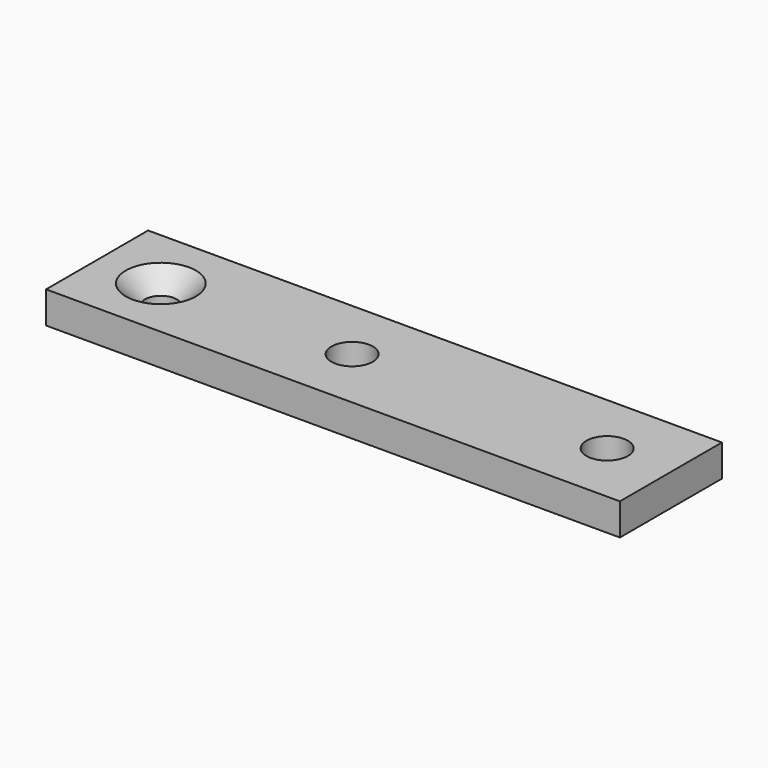
from build123d import *

# Parameters (mm, degrees)
F0_W     = 90
F0_H     = 20
F0_R     = 2.5
F0_R_2   = 3.25
F1_DEPTH = 5
F2_SIZE  = 3


with BuildPart() as f1:
    # F0 (on Top) → F1 (new body)
    with BuildSketch(Plane.XY):
        with Locations((35, 0)):
            Rectangle(F0_W, F0_H)
        Circle(F0_R, mode=Mode.SUBTRACT)
        with Locations((30, 0)):
            Circle(F0_R_2, mode=Mode.SUBTRACT)
        with Locations((70, 0)):
            Circle(F0_R_2, mode=Mode.SUBTRACT)
    extrude(amount=F1_DEPTH)

    # F2
    f2_edges = [f1.edges().sort_by_distance(p)[0] for p in [
        (-2.5, 0, 5),
    ]]
    chamfer(f2_edges, length=F2_SIZE)


solid = f1.part
